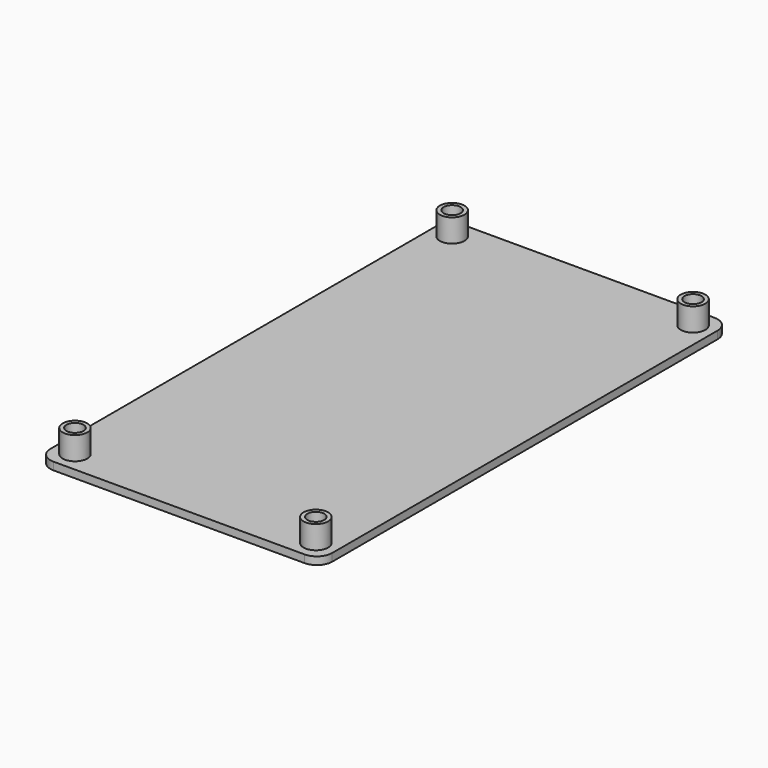
from build123d import *

# Parameters (mm, degrees)
F0_W     = 55
F0_H     = 100
F1_DEPTH = 1.5
F2_R     = 3
F3_R     = 2.4
F4_DEPTH = 4.5
F5_R     = 1.65
F6_DEPTH = 2


with BuildPart() as f1:
    # F0 (on Top) → F1 (new body)
    with BuildSketch(Plane.XY):
        with Locations((27.5, 50)):
            Rectangle(F0_W, F0_H)
    extrude(amount=F1_DEPTH)

    # F2
    f2_edges = [f1.edges().sort_by_distance(p)[0] for p in [
        (0, 100, 0.75),
        (55, 100, 0.75),
        (0, 0, 0.75),
        (55, 0, 0.75),
    ]]
    fillet(f2_edges, radius=F2_R)

    # F3 (on face) → F4 (join)
    with BuildSketch(Plane.XY.offset(1.5)):
        with Locations((4, 96)):
            Circle(F3_R)
        with Locations((4, 4)):
            Circle(F3_R)
        with Locations((51, 96)):
            Circle(F3_R)
        with Locations((51, 4)):
            Circle(F3_R)
    extrude(amount=F4_DEPTH)

    # F5 (on face) → F6 (cut)
    with BuildSketch(Plane.XY.offset(6)):
        with Locations((4, 96)):
            Circle(F5_R)
        with Locations((4, 4)):
            Circle(F5_R)
        with Locations((51, 96)):
            Circle(F5_R)
        with Locations((51, 4)):
            Circle(F5_R)
    extrude(amount=-F6_DEPTH, mode=Mode.SUBTRACT)


solid = f1.part
